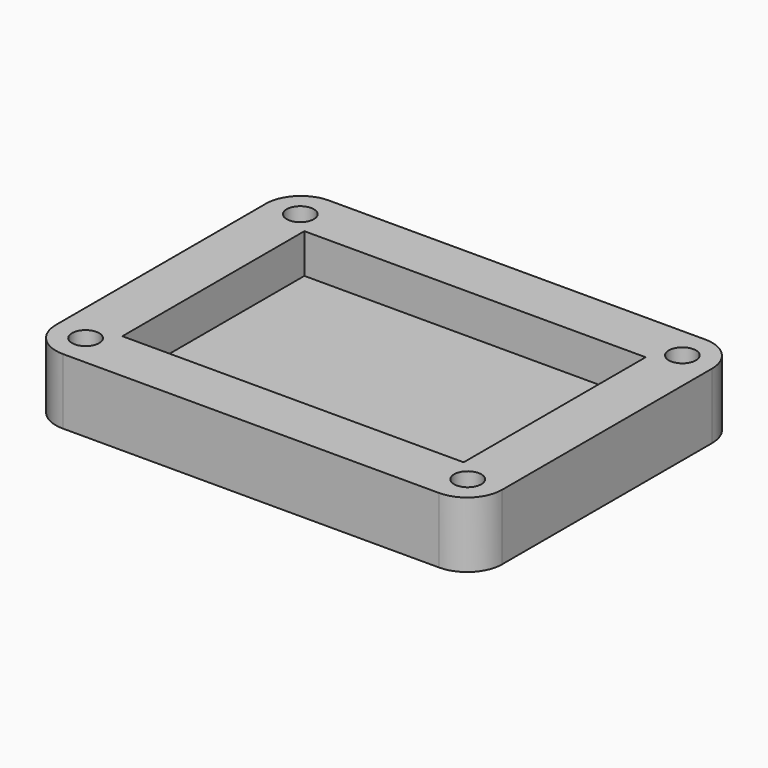
from build123d import *

# Parameters (mm, degrees)
F1_DEPTH = 3
F0_R     = 2.6
F0_W     = 13.2
F0_H     = 6
F0_W_2   = 2
F0_W_3   = 5.6
F0_H_2   = 8.5
F0_W_4   = 0.4
F0_H_3   = 2.75
F0_R_2   = 1.55
F2_DEPTH = 7.5
F3_DEPTH = 3.3


with BuildPart() as f1:
    # F0 (on Top) → F1 (new body)
    with BuildSketch(Plane.XY):
        Polygon((19.5, 13), (9.5, 13), (-3.7, 13), (-5.7, 13), (-18.9, 13), (-19.5, 13), (-19.5, -13), (-18.9, -13), (-5.7, -13), (-3.7, -13), (9.5, -13), (19.5, -13), (19.5, -7), (19.5, -4.25), (19.5, 4.25), (19.5, 7), align=None)
    extrude(amount=F1_DEPTH)

    # F0 (on Top) → F2 (join)
    with BuildSketch(Plane.XY):
        with BuildLine():
            Line((-18.9, 13), (-18.9, 19))
            Line((-18.9, 19), (-21.5, 19))
            ThreePointArc((-21.5, 19), (-24.3284271247, 17.8284271247), (-25.5, 15))
            Line((-25.5, 15), (-25.5, -15))
            ThreePointArc((-25.5, -15), (-24.3284271247, -17.8284271247), (-21.5, -19))
            Line((-21.5, -19), (-18.9, -19))
            Line((-18.9, -19), (-18.9, -13))
            Line((-18.9, -13), (-19.5, -13))
            Line((-19.5, -13), (-19.5, 13))
            Line((-19.5, 13), (-18.9, 13))
        make_face()
        with Locations((-21.8334523779, -15.3334523779)):
            Circle(F0_R, mode=Mode.SUBTRACT)
        with Locations((-21.8334523779, 15.3334523779)):
            Circle(F0_R, mode=Mode.SUBTRACT)
        with Locations((-12.3, -16)):
            Rectangle(F0_W, F0_H)
        with Locations((-4.7, -16)):
            Rectangle(F0_W_2, F0_H)
        with Locations((2.9, -16)):
            Rectangle(F0_W, F0_H)
        with BuildLine():
            Line((25.5, -15), (25.5, -7))
            Line((25.5, -7), (25.1, -7))
            Line((25.1, -7), (19.5, -7))
            Line((19.5, -7), (19.5, -13))
            Line((19.5, -13), (9.5, -13))
            Line((9.5, -13), (9.5, -19))
            Line((9.5, -19), (21.5, -19))
            ThreePointArc((21.5, -19), (24.3284271247, -17.8284271247), (25.5, -15))
        make_face()
        with Locations((21.8334523779, -15.3334523779)):
            Circle(F0_R, mode=Mode.SUBTRACT)
        with Locations((22.3, 0)):
            Rectangle(F0_W_3, F0_H_2)
        with Locations((25.3, -5.625)):
            Rectangle(F0_W_4, F0_H_3)
        with Locations((22.3, -5.625)):
            Rectangle(F0_W_3, F0_H_3)
        with Locations((25.3, 0)):
            Rectangle(F0_W_4, F0_H_2)
        with Locations((22.3, 5.625)):
            Rectangle(F0_W_3, F0_H_3)
        with Locations((25.3, 5.625)):
            Rectangle(F0_W_4, F0_H_3)
        with BuildLine():
            ThreePointArc((25.5, 15), (24.3284271247, 17.8284271247), (21.5, 19))
            Line((21.5, 19), (9.5, 19))
            Line((9.5, 19), (9.5, 13))
            Line((9.5, 13), (19.5, 13))
            Line((19.5, 13), (19.5, 7))
            Line((19.5, 7), (25.1, 7))
            Line((25.1, 7), (25.5, 7))
            Line((25.5, 7), (25.5, 15))
        make_face()
        with Locations((21.8334523779, 15.3334523779)):
            Circle(F0_R, mode=Mode.SUBTRACT)
        with Locations((2.9, 16)):
            Rectangle(F0_W, F0_H)
        with Locations((-4.7, 16)):
            Rectangle(F0_W_2, F0_H)
        with Locations((-12.3, 16)):
            Rectangle(F0_W, F0_H)
        with Locations((-21.8334523779, 15.3334523779)):
            Circle(F0_R)
        with Locations((-21.8334523779, 15.3334523779)):
            Circle(F0_R_2, mode=Mode.SUBTRACT)
        with Locations((-21.8334523779, -15.3334523779)):
            Circle(F0_R)
        with Locations((-21.8334523779, -15.3334523779)):
            Circle(F0_R_2, mode=Mode.SUBTRACT)
        with Locations((21.8334523779, -15.3334523779)):
            Circle(F0_R)
        with Locations((21.8334523779, -15.3334523779)):
            Circle(F0_R_2, mode=Mode.SUBTRACT)
        with Locations((21.8334523779, 15.3334523779)):
            Circle(F0_R)
        with Locations((21.8334523779, 15.3334523779)):
            Circle(F0_R_2, mode=Mode.SUBTRACT)
    extrude(amount=F2_DEPTH)

    # F0 (on Top) → F3 (cut)
    with BuildSketch(Plane.XY):
        with Locations((-21.8334523779, -15.3334523779)):
            Circle(F0_R)
        with Locations((-21.8334523779, -15.3334523779)):
            Circle(F0_R_2, mode=Mode.SUBTRACT)
        with Locations((21.8334523779, -15.3334523779)):
            Circle(F0_R)
        with Locations((21.8334523779, -15.3334523779)):
            Circle(F0_R_2, mode=Mode.SUBTRACT)
        with Locations((21.8334523779, 15.3334523779)):
            Circle(F0_R)
        with Locations((21.8334523779, 15.3334523779)):
            Circle(F0_R_2, mode=Mode.SUBTRACT)
        with Locations((-21.8334523779, 15.3334523779)):
            Circle(F0_R)
        with Locations((-21.8334523779, 15.3334523779)):
            Circle(F0_R_2, mode=Mode.SUBTRACT)
    extrude(amount=F3_DEPTH, mode=Mode.SUBTRACT)


solid = f1.part
